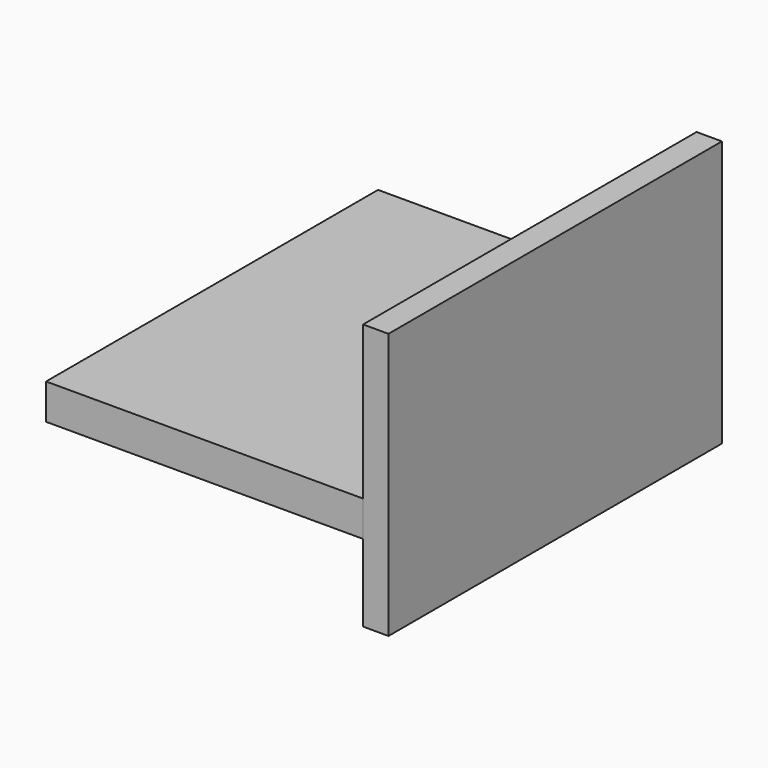
from build123d import *

# Parameters (mm, degrees)
F0_W     = 236.205176
F0_H     = 266.267627
F0_W_2   = 180.947438
F1_DEPTH = 25.4
F2_W     = 317.041844
F2_H     = 415.295705
F3_DEPTH = 35.56


with BuildPart() as f1:
    # F0 (on Right) → F1 (new body)
    with BuildSketch(Plane.YZ):
        with Locations((-118.102588, 55.634335)):
            Rectangle(F0_W, F0_H)
        with Locations((90.473719, 55.634335)):
            Rectangle(F0_W_2, F0_H)
    extrude(amount=F1_DEPTH)

    # F2 (on Top) → F3 (join)
    with BuildSketch(Plane.XY):
        with Locations((-158.520922, -28.892569)):
            Rectangle(F2_W, F2_H)
    extrude(amount=F3_DEPTH)


solid = f1.part
